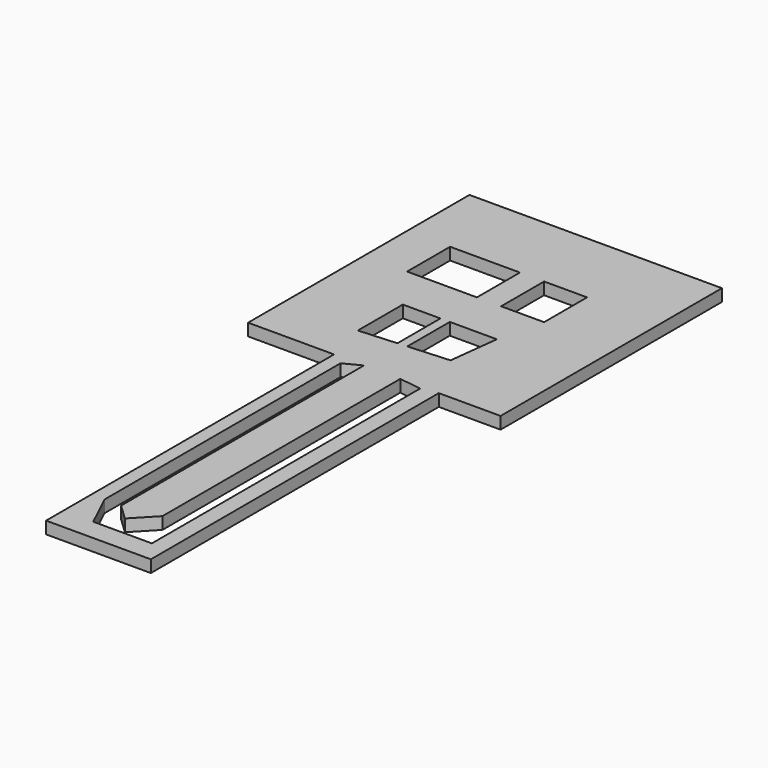
from build123d import *

# Parameters (mm, degrees)
F0_W     = 7.311989
F0_H     = 5.624611
F0_W_2   = 4.499681
F1_DEPTH = 1.27


with BuildPart() as f1:
    # F0 (on Top) → F1 (new body)
    with BuildSketch(Plane.XY):
        Polygon((-52.027594, 43.731302), (-60.183268, 43.731302), (-60.183268, 14.764586), (-51.183902, 14.764586), (-51.183902, -22.920264), (-40.215924, -22.920264), (-40.215924, 14.764586), (-33.747628, 14.764586), (-33.747628, 43.731302), (-44.715606, 43.731302), align=None)
        Polygon((-44.251331, 14.764586), (-41.913606, 14.456139), (-41.913606, 5.38962), (-41.913606, -2.644005), (-41.913606, -11.021928), (-41.913606, -17.228071), (-41.913606, -20.662278), (-45.699913, -20.662278), (-48.052873, -20.662278), (-49.792472, -17.014429), (-49.792472, -10.103798), (-49.792472, 1.661027), (-49.792472, 13.868976), (-48.052873, 14.764586), (-48.052873, -17.014429), (-46.391699, -18.599765), (-44.251331, -16.35701), align=None, mode=Mode.SUBTRACT)
        Polygon((-52.308824, 19.283019), (-52.308824, 25.170106), (-48.3716, 25.170106), (-48.3716, 19.5455), align=None, mode=Mode.SUBTRACT)
        with Locations((-52.027594, 32.763324)):
            Rectangle(F0_W, F0_H, mode=Mode.SUBTRACT)
        Polygon((-47.387294, 25.170106), (-42.465765, 25.170106), (-43.089199, 19.89766), (-47.387294, 19.611121), align=None, mode=Mode.SUBTRACT)
        with Locations((-43.590688, 32.763324)):
            Rectangle(F0_W_2, F0_H, mode=Mode.SUBTRACT)
    extrude(amount=F1_DEPTH)


solid = f1.part
